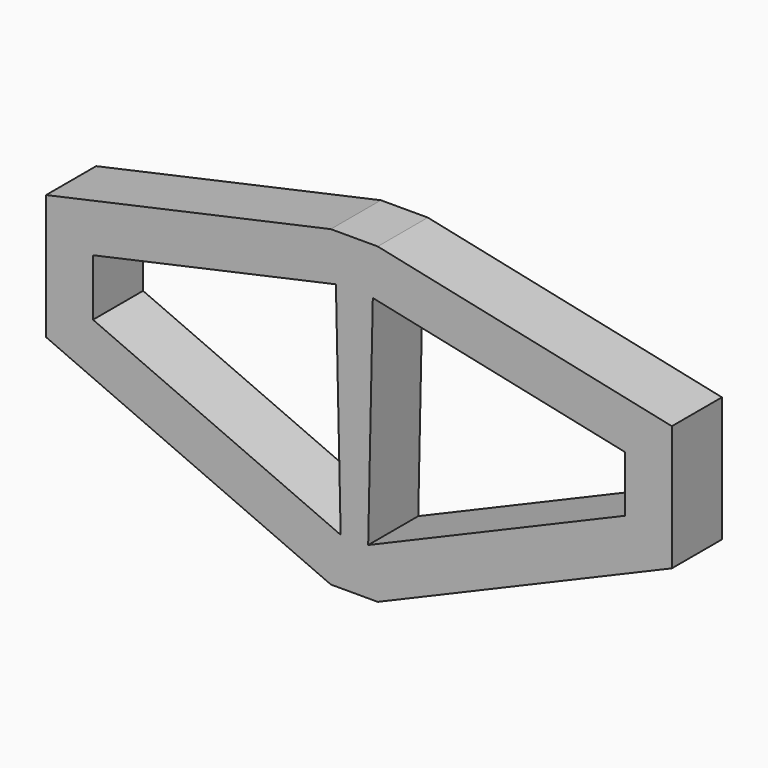
from build123d import *

# Parameters (mm, degrees)
F1_DEPTH = 25.4


with BuildPart() as f1:
    # F0 (on Front) → F1 (new body)
    with BuildSketch(Plane.XZ):
        Polygon((-119.38, -50.8), (0, 0), (0, 50.8), (-119.38, 76.2), (-138.43, 76.2), (-254, 50.8), (-254, 0), (-138.43, -50.8), align=None)
        Polygon((-134.427967, -31.75), (-234.95, 12.435509), (-234.95, 35.48215), (-136.36128, 57.15), align=None, mode=Mode.SUBTRACT)
        Polygon((-123.264649, -31.75), (-121.384165, 57.15), (-19.05, 35.376773), (-19.05, 12.596659), align=None, mode=Mode.SUBTRACT)
    extrude(amount=F1_DEPTH)


solid = f1.part
